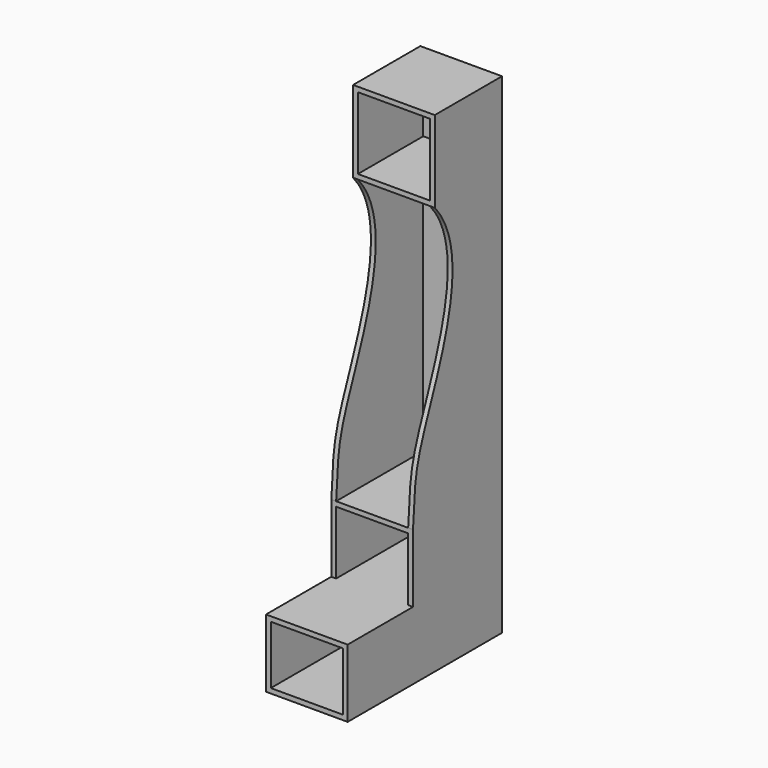
from build123d import *

# Parameters (mm, degrees)
F0_W      = 268.8
F0_H      = 218
F4_DEPTH  = 711.2
F5_DEPTH  = 406.4
F2_W      = 268.8
F2_H      = 268.8
F6_DEPTH  = 304.8
F3_W      = 18
F3_H      = 1016
F7_DEPTH  = 406.4
F9_DEPTH  = 25.4
F10_DEPTH = 330.201
F11_W     = 304.8
F11_H     = 1828.8
F12_DEPTH = 9


with BuildPart() as f4:
    # F0 (on Front) → F4 (new body)
    with BuildSketch(Plane.XZ):
        Polygon((0, 254), (0, 0), (304.8, 0), (304.8, 254), (286.8, 254), (18, 254), align=None)
        with Locations((152.4, 127)):
            Rectangle(F0_W, F0_H, mode=Mode.SUBTRACT)
    extrude(amount=F4_DEPTH)

    # F1 (on face) → F5 (join)
    with BuildSketch(Plane.XZ):
        Polygon((0, 254), (18, 254), (18, 490), (286.8, 490), (286.8, 254), (304.8, 254), (304.8, 508), (0, 508), align=None)
    extrude(amount=F5_DEPTH)



with BuildPart() as f6:
    # F2 (on face) → F6 (new body)
    with BuildSketch(Plane.XZ):
        Polygon((286.8, 1524), (304.8, 1524), (304.8, 1828.8), (0, 1828.8), (0, 1524), (18, 1524), align=None)
        with Locations((152.4, 1676.4)):
            Rectangle(F2_W, F2_H, mode=Mode.SUBTRACT)
    extrude(amount=F6_DEPTH)


with BuildPart() as f4_1:
    add(f4.part)

    add(f6.part)  # F7 merges F6
    # F3 (on face) → F7 (join)
    with BuildSketch(Plane.XZ):
        with Locations((9, 1016)):
            Rectangle(F3_W, F3_H)
        with Locations((295.8, 1016)):
            Rectangle(F3_W, F3_H)
    extrude(amount=F7_DEPTH)

    # F8 (on face) → F9 (join)
    with BuildSketch(Plane.YZ.offset(304.8)):
        with BuildLine():
            Line((-406.4, 1524), (-406.4, 508))
            add(Edge.make_bspline(
                [(-406.4, 508), (-396.8275922681, 598.5997341904), (-421.7207556926, 754.4937009727), (-111.9974998318, 1301.6475166208), (-304.8, 1524)],
                knots=[0, 0, 0, 0, 0.3701888658, 1, 1, 1, 1], degree=3))
            Line((-304.8, 1524), (-406.4, 1524))
        make_face()
    extrude(amount=F9_DEPTH)

    # F10 (cut, through all): a face of the model
    f10_faces = [f4_1.faces().sort_by_distance(p)[0] for p in [
        (330.2, -333.081689218, 1181.2920235829),
    ]]
    extrude(f10_faces, amount=-F10_DEPTH, mode=Mode.SUBTRACT)

    # F11 (on face) → F12 (join)
    with BuildSketch(Plane(origin=(0, 0, 0), x_dir=(-1, 0, 0), z_dir=(0, 1, 0))):
        with Locations((-152.4, 914.4)):
            Rectangle(F11_W, F11_H)
    extrude(amount=F12_DEPTH)


solid = f4_1.part
